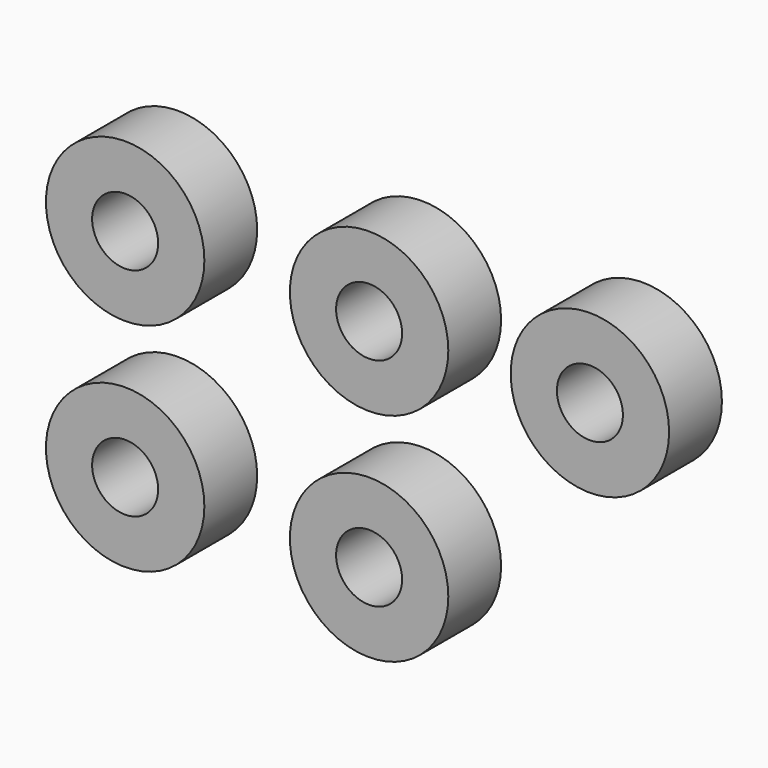
from build123d import *

# Parameters (mm, degrees)
F0_R     = 7.62
F0_R_2   = 3.175
F1_DEPTH = 6.35


with BuildPart() as f1:
    # F0 (on Front) → F1 (new body)
    with BuildSketch(Plane.XZ):
        with Locations((-54.82354, 37.021063)):
            Circle(F0_R)
        with Locations((-54.82354, 37.021063)):
            Circle(F0_R_2, mode=Mode.SUBTRACT)
        with Locations((-31.356636, 37.021063)):
            Circle(F0_R)
        with Locations((-31.356636, 37.021063)):
            Circle(F0_R_2, mode=Mode.SUBTRACT)
        with Locations((-10.115045, 37.021063)):
            Circle(F0_R)
        with Locations((-10.115045, 37.021063)):
            Circle(F0_R_2, mode=Mode.SUBTRACT)
        with Locations((-54.82354, 16.184071)):
            Circle(F0_R)
        with Locations((-54.82354, 16.184071)):
            Circle(F0_R_2, mode=Mode.SUBTRACT)
        with Locations((-31.356636, 16.184071)):
            Circle(F0_R)
        with Locations((-31.356636, 16.184071)):
            Circle(F0_R_2, mode=Mode.SUBTRACT)
    extrude(amount=F1_DEPTH)


solid = f1.part
